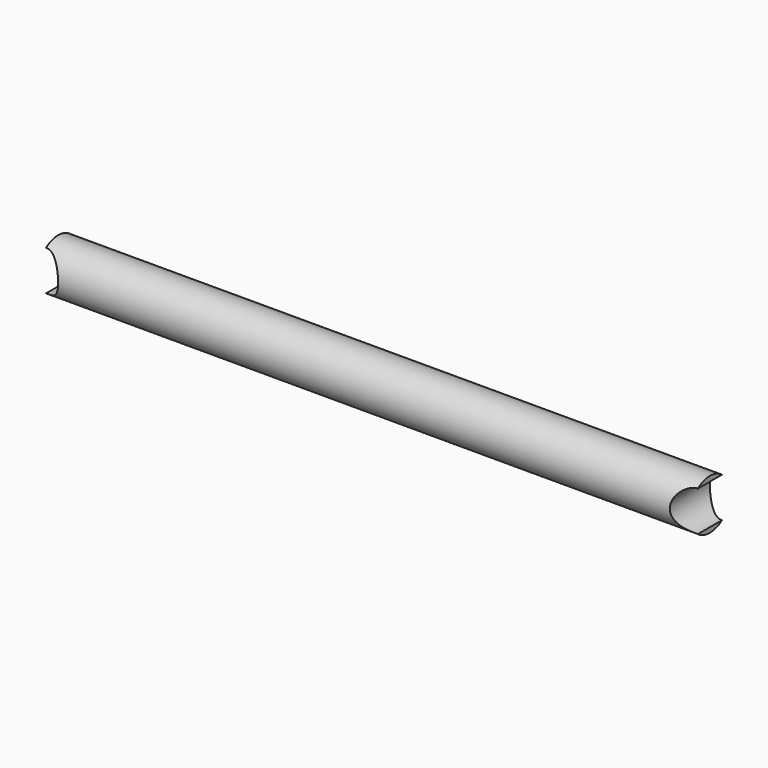
from build123d import *

# Parameters (mm, degrees)
F1_R          = 2.5
F2_DEPTH      = 32.5
F3_R          = 2
F4_DEPTH      = 2.501
F4_DEPTH_BACK = 2.501


with BuildPart() as f2:
    # F1 (on Right) → F2 (new body, symmetric)
    with BuildSketch(Plane.YZ):
        Circle(F1_R)
    extrude(amount=F2_DEPTH, both=True)

    # F3 (on Front) → F4 (cut, two sides)
    with BuildSketch(Plane.XZ) as f4_sk:
        with Locations((-32.5, 0)):
            Circle(F3_R)
        with Locations((32.5, 0)):
            Circle(F3_R)
    extrude(amount=-F4_DEPTH, mode=Mode.SUBTRACT)
    extrude(f4_sk.sketch, amount=F4_DEPTH_BACK, mode=Mode.SUBTRACT)


solid = f2.part
